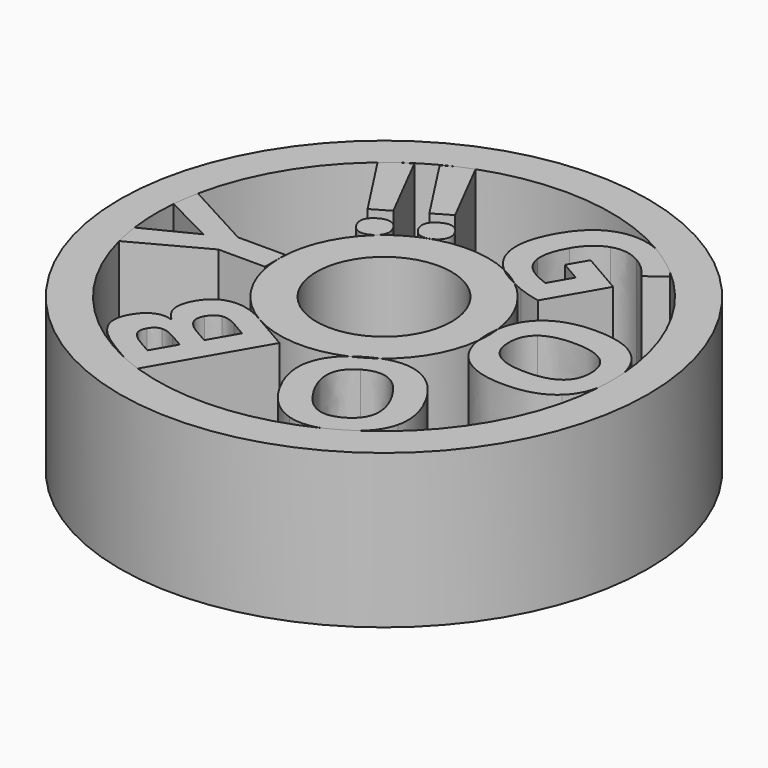
from build123d import *

# Parameters (mm, degrees)
F1_DEPTH = 25
F0_R     = 43
F2_DEPTH = 25
F0_R_2   = 11
F3_DEPTH = 25


with BuildPart() as f1:
    # F0 (on Top) → F1 (new body)
    with BuildSketch(Plane.XY):
        with BuildLine():
            Line((-17, -2.98828125), (-17, 0))
            Line((-17, 0), (-17, 1.1870659722))
            Line((-17, 1.1870659722), (-24.7170138889, 1.1870659722))
            Line((-24.7170138889, 1.1870659722), (-36.242713322, 7.4475318771))
            ThreePointArc((-36.242713322, 7.4475318771), (-36.5890510075, 5.4992132501), (-36.8307291667, 3.5351646428))
            Line((-36.8307291667, 3.5351646428), (-36.8307291667, 3.2356770833))
            Line((-36.8307291667, 3.2356770833), (-28.6666666667, -0.9006076389))
            Line((-28.6666666667, -0.9006076389), (-36.6700879054, -4.9299749505))
            ThreePointArc((-36.6700879054, -4.9299749505), (-36.3311051273, -7.0036276479), (-35.8749566626, -9.0546940563))
            Line((-35.8749566626, -9.0546940563), (-24.5824652778, -2.98828125))
            Line((-24.5824652778, -2.98828125), (-17, -2.98828125))
        make_face()
        with BuildLine():
            Line((-2.4333116245, -18.225036031), (-8.5000001878, -14.7224317559))
            Line((-8.5000001878, -14.7224317559), (-8.8570851274, -14.5162686699))
            add(Edge.make_bspline(
                [(-14.2286700686, -13.1690850385), (-11.7701480091, -12.834411031), (-8.8570851274, -14.5162686699)],
                knots=[0, 0, 0, 1, 1, 1], degree=2))
            add(Edge.make_bspline(
                [(-18.0435289337, -15.8530033054), (-16.6871921281, -13.503759046), (-14.2286700686, -13.1690850385)],
                knots=[0, 0, 0, 1, 1, 1], degree=2))
            add(Edge.make_bspline(
                [(-18.8531648268, -18.9263407523), (-19.0005601837, -17.5106300548), (-18.0435289337, -15.8530033054)],
                knots=[0, 0, 0, 1, 1, 1], degree=2))
            add(Edge.make_bspline(
                [(-17.2849577284, -21.6484944366), (-18.7057694699, -20.3420514498), (-18.8531648268, -18.9263407523)],
                knots=[0, 0, 0, 1, 1, 1], degree=2))
            Line((-17.2849577284, -21.6484944366), (-17.3522320339, -21.7650169519))
            add(Edge.make_bspline(
                [(-19.9576529598, -21.8419744818), (-18.666303665, -21.2719585596), (-17.3522320339, -21.7650169519)],
                knots=[0, 0, 0, 1, 1, 1], degree=2))
            add(Edge.make_bspline(
                [(-22.1387591991, -23.9530946383), (-21.2490022547, -22.4119904041), (-19.9576529598, -21.8419744818)],
                knots=[0, 0, 0, 1, 1, 1], degree=2))
            add(Edge.make_bspline(
                [(-22.3972871841, -28.2116421323), (-23.4473529491, -26.2196454997), (-22.1387591991, -23.9530946383)],
                knots=[0, 0, 0, 1, 1, 1], degree=2))
            add(Edge.make_bspline(
                [(-17.6936767468, -32.3130137649), (-21.3472214191, -30.2036387649), (-22.3972871841, -28.2116421323)],
                knots=[0, 0, 0, 1, 1, 1], degree=2))
            Line((-17.6936767468, -32.3130137649), (-15.3538221961, -33.6639294196))
            ThreePointArc((-15.3538221961, -33.6639294196), (-13.7416976025, -34.3535405308), (-12.0987118142, -34.966000235))
            Line((-12.0987118142, -34.966000235), (-2.4333116245, -18.225036031))
        make_face()
        with BuildLine():
            Line((-14.1754335568, -25.2730572508), (-12.0629931187, -26.4926753064))
            Line((-12.0629931187, -26.4926753064), (-14.2678542299, -30.3116067744))
            Line((-14.2678542299, -30.3116067744), (-16.1810787547, -29.20700608))
            add(Edge.make_bspline(
                [(-18.2190277369, -27.4590594826), (-17.7447357338, -28.3042283022), (-16.1810787547, -29.20700608)],
                knots=[0, 0, 0, 1, 1, 1], degree=2))
            add(Edge.make_bspline(
                [(-18.1225732123, -25.6253286787), (-18.6933197401, -26.613890663), (-18.2190277369, -27.4590594826)],
                knots=[0, 0, 0, 1, 1, 1], degree=2))
            add(Edge.make_bspline(
                [(-16.5845806612, -24.4935654941), (-17.5127641845, -24.5691084597), (-18.1225732123, -25.6253286787)],
                knots=[0, 0, 0, 1, 1, 1], degree=2))
            add(Edge.make_bspline(
                [(-14.1754335568, -25.2730572508), (-15.6563971379, -24.4180225286), (-16.5845806612, -24.4935654941)],
                knots=[0, 0, 0, 1, 1, 1], degree=2))
        make_face(mode=Mode.SUBTRACT)
        with BuildLine():
            Line((-7.8116910354, -19.1292040997), (-10.3963264521, -23.6059239604))
            Line((-10.3963264521, -23.6059239604), (-12.6516009411, -22.3038406271))
            add(Edge.make_bspline(
                [(-14.4689300551, -18.4029358755), (-15.7037390829, -20.5416878493), (-12.6516009411, -22.3038406271)],
                knots=[0, 0, 0, 1, 1, 1], degree=2))
            add(Edge.make_bspline(
                [(-12.735085266, -17.0534744416), (-13.7831661662, -17.215157978), (-14.4689300551, -18.4029358755)],
                knots=[0, 0, 0, 1, 1, 1], degree=2))
            add(Edge.make_bspline(
                [(-10.1834880397, -17.7598464608), (-11.6870043657, -16.8917909053), (-12.735085266, -17.0534744416)],
                knots=[0, 0, 0, 1, 1, 1], degree=2))
            Line((-10.1834880397, -17.7598464608), (-7.8116910354, -19.1292040997))
        make_face(mode=Mode.SUBTRACT)
        with BuildLine():
            add(Edge.make_bspline(
                [(10.2533819831, -13.5597993314), (13.1906554645, -12.4093893811), (15.8278450945, -13.2306041003)],
                knots=[0.2327103059, 0.2327103059, 0.2327103059, 1, 1, 1], degree=2))
            ThreePointArc((10.2533819831, -13.5597993314), (8.5456416458, -14.695986148), (6.7134928064, -15.6182269909))
            add(Edge.make_bspline(
                [(3.7057447161, -20.229302017), (4.3051508388, -17.5702917785), (6.7134928064, -15.6182269909)],
                knots=[0, 0, 0, 0.7571890375, 0.7571890375, 0.7571890375], degree=2))
            add(Edge.make_bspline(
                [(5.3772321743, -28.0072157188), (2.9141245354, -23.7409881437), (3.7057447161, -20.229302017)],
                knots=[0, 0, 0, 1, 1, 1], degree=2))
            add(Edge.make_bspline(
                [(11.2582746018, -33.3497300048), (7.8446800909, -32.2809608755), (5.3772321743, -28.0072157188)],
                knots=[0, 0, 0, 1, 1, 1], degree=2))
            add(Edge.make_bspline(
                [(16.3803947727, -33.1765379009), (13.6820963749, -34.1086092091), (11.2582746018, -33.3497300048)],
                knots=[0.2899502957, 0.2899502957, 0.2899502957, 1, 1, 1], degree=2))
            ThreePointArc((16.3803947727, -33.1765379009), (18.5971718509, -31.9866409482), (20.7279596903, -30.6488447919))
            add(Edge.make_bspline(
                [(23.4025020472, -26.3633156256), (22.8331043763, -28.799149152), (20.7279596903, -30.6488447919)],
                knots=[0, 0, 0, 0.6989737986, 0.6989737986, 0.6989737986], degree=2))
            add(Edge.make_bspline(
                [(21.740993053, -18.589664297), (24.2171215252, -22.878444617), (23.4025020472, -26.3633156256)],
                knots=[0, 0, 0, 1, 1, 1], degree=2))
            add(Edge.make_bspline(
                [(15.8278450945, -13.2306041003), (19.2648645808, -14.3008839771), (21.740993053, -18.589664297)],
                knots=[0, 0, 0, 1, 1, 1], degree=2))
        make_face()
        with BuildLine():
            add(Edge.make_bspline(
                [(17.9090407516, -20.7719726633), (16.2467143627, -17.8927388989), (14.3138568115, -17.0666328053)],
                knots=[0, 0, 0, 1, 1, 1], degree=2))
            add(Edge.make_bspline(
                [(19.3101759252, -25.7465530277), (19.5691970016, -23.6474476368), (17.9090407516, -20.7719726633)],
                knots=[0, 0, 0, 1, 1, 1], degree=2))
            add(Edge.make_bspline(
                [(16.8785737576, -29.0999986964), (19.0511548487, -27.8456584186), (19.3101759252, -25.7465530277)],
                knots=[0, 0, 0, 1, 1, 1], degree=2))
            add(Edge.make_bspline(
                [(9.1961636423, -25.8023546077), (12.5446879479, -31.6021688353), (16.8785737576, -29.0999986964)],
                knots=[0, 0, 0, 1, 1, 1], degree=2))
            add(Edge.make_bspline(
                [(10.2084181692, -17.4948669895), (5.8519796146, -20.0100579617), (9.1961636423, -25.8023546077)],
                knots=[0, 0, 0, 1, 1, 1], degree=2))
            add(Edge.make_bspline(
                [(14.3138568115, -17.0666328053), (12.3809992603, -16.2405267117), (10.2084181692, -17.4948669895)],
                knots=[0, 0, 0, 1, 1, 1], degree=2))
        make_face(mode=Mode.SUBTRACT)
        with BuildLine():
            ThreePointArc((16.8698216828, 2.0997896063), (16.9674242095, 1.0519104982), (17, 0))
            ThreePointArc((17, 0), (16.9706065238, -0.9992568315), (16.8825277394, -1.995058177))
            add(Edge.make_bspline(
                [(19.3719618056, -6.9053819444), (17.3688944515, -5.0567758958), (16.8825277394, -1.995058177)],
                knots=[0, 0, 0, 0.7571890375, 0.7571890375, 0.7571890375], degree=2))
            add(Edge.make_bspline(
                [(26.9435763889, -9.3467881944), (22.0173611111, -9.3467881944), (19.3719618056, -6.9053819444)],
                knots=[0, 0, 0, 1, 1, 1], degree=2))
            add(Edge.make_bspline(
                [(34.5108506944, -6.9249131944), (31.8784722222, -9.3467881944), (26.9435763889, -9.3467881944)],
                knots=[0, 0, 0, 1, 1, 1], degree=2))
            add(Edge.make_bspline(
                [(36.9219220182, -2.4024309532), (36.3799702503, -5.2052615668), (34.5108506944, -6.9249131944)],
                knots=[0.2899502957, 0.2899502957, 0.2899502957, 1, 1, 1], degree=2))
            ThreePointArc((36.9219220182, -2.4024309532), (36.980475353, -1.2018496845), (37, 0))
            ThreePointArc((37, 0), (36.9766571445, 1.3140876744), (36.9066580316, 2.6265172645))
            add(Edge.make_bspline(
                [(34.5325520833, 7.0855034722), (36.3573469611, 5.3744738611), (36.9066580316, 2.6265172645)],
                knots=[0, 0, 0, 0.6989737986, 0.6989737986, 0.6989737986], degree=2))
            add(Edge.make_bspline(
                [(26.9696180556, 9.5334201389), (31.921875, 9.5334201389), (34.5325520833, 7.0855034722)],
                knots=[0, 0, 0, 1, 1, 1], degree=2))
            add(Edge.make_bspline(
                [(19.3719618056, 7.0920138889), (22.0173611111, 9.5334201389), (26.9696180556, 9.5334201389)],
                knots=[0, 0, 0, 1, 1, 1], degree=2))
            add(Edge.make_bspline(
                [(16.8698216828, 2.0997896063), (17.3421741817, 5.2187480342), (19.3719618056, 7.0920138889)],
                knots=[0.2327103059, 0.2327103059, 0.2327103059, 1, 1, 1], degree=2))
        make_face()
        with BuildLine():
            add(Edge.make_bspline(
                [(26.9435763889, 5.1236979167), (23.6189236111, 5.1236979167), (21.9370659722, 3.8628472222)],
                knots=[0, 0, 0, 1, 1, 1], degree=2))
            add(Edge.make_bspline(
                [(31.9522569444, 3.8498263889), (30.2638888889, 5.1236979167), (26.9435763889, 5.1236979167)],
                knots=[0, 0, 0, 1, 1, 1], degree=2))
            add(Edge.make_bspline(
                [(33.640625, 0.0672743056), (33.640625, 2.5759548611), (31.9522569444, 3.8498263889)],
                knots=[0, 0, 0, 1, 1, 1], degree=2))
            add(Edge.make_bspline(
                [(26.9435763889, -4.9370659722), (33.640625, -4.9370659722), (33.640625, 0.0672743056)],
                knots=[0, 0, 0, 1, 1, 1], degree=2))
            add(Edge.make_bspline(
                [(20.2552083333, 0.0933159722), (20.2552083333, -4.9370659722), (26.9435763889, -4.9370659722)],
                knots=[0, 0, 0, 1, 1, 1], degree=2))
            add(Edge.make_bspline(
                [(21.9370659722, 3.8628472222), (20.2552083333, 2.6019965278), (20.2552083333, 0.0933159722)],
                knots=[0, 0, 0, 1, 1, 1], degree=2))
        make_face(mode=Mode.SUBTRACT)
        with BuildLine():
            ThreePointArc((7.258019972, 15.3727403571), (9.0554118429, 14.3874777621), (10.7211599616, 13.1930560932))
            add(Edge.make_bspline(
                [(12.3362717047, 12.4825007575), (11.5205403299, 12.8041492388), (10.7211599616, 13.1930560932)],
                knots=[0, 0, 0, 0.5136725556, 0.5136725556, 0.5136725556], degree=2))
            add(Edge.make_bspline(
                [(15.8944361368, 11.4405612243), (13.9243093874, 11.856326597), (12.3362717047, 12.4825007575)],
                knots=[0, 0, 0, 1, 1, 1], degree=2))
            Line((15.8944361368, 11.4405612243), (21.0354951646, 20.3451366652))
            Line((21.0354951646, 20.3451366652), (14.2208074169, 24.2795984707))
            Line((14.2208074169, 24.2795984707), (12.4695053336, 21.246254283))
            Line((12.4695053336, 21.246254283), (15.7246181794, 19.3669140052))
            Line((15.7246181794, 19.3669140052), (13.6564758183, 15.7847863585))
            add(Edge.make_bspline(
                [(11.2065120651, 16.8885468835), (12.3491844729, 16.2288246613), (13.6564758183, 15.7847863585)],
                knots=[0, 0, 0, 1, 1, 1], degree=2))
            add(Edge.make_bspline(
                [(8.7287972428, 20.2836508691), (9.0226546016, 18.1493975779), (11.2065120651, 16.8885468835)],
                knots=[0, 0, 0, 1, 1, 1], degree=2))
            add(Edge.make_bspline(
                [(10.0495232174, 25.2144445267), (8.4349398841, 22.4179041603), (8.7287972428, 20.2836508691)],
                knots=[0, 0, 0, 1, 1, 1], degree=2))
            add(Edge.make_bspline(
                [(13.9312836455, 28.6566008109), (11.5946621063, 27.890703587), (10.0495232174, 25.2144445267)],
                knots=[0, 0, 0, 1, 1, 1], degree=2))
            add(Edge.make_bspline(
                [(18.6284258166, 28.0596508126), (16.2679051847, 29.4224980349), (13.9312836455, 28.6566008109)],
                knots=[0, 0, 0, 1, 1, 1], degree=2))
            add(Edge.make_bspline(
                [(21.9987923328, 24.8608385255), (20.6619316475, 26.8856056737), (18.6284258166, 28.0596508126)],
                knots=[0, 0, 0, 1, 1, 1], degree=2))
            Line((21.9987923328, 24.8608385255), (24.8909806141, 27.075116685))
            add(Edge.make_bspline(
                [(24.0099871769, 28.1517409011), (24.4712335177, 27.6379072493), (24.8909806141, 27.075116685)],
                knots=[0.7724555025, 0.7724555025, 0.7724555025, 1, 1, 1], degree=2))
            ThreePointArc((24.0099871769, 28.1517409011), (21.4326641019, 30.1602538035), (18.6881894438, 31.9335493691))
            add(Edge.make_bspline(
                [(12.4649605135, 32.5578268682), (15.4213169325, 33.3133819423), (18.6881894438, 31.9335493691)],
                knots=[0, 0, 0, 0.7943894352, 0.7943894352, 0.7943894352], degree=2))
            add(Edge.make_bspline(
                [(6.3432414137, 27.4494900244), (8.7434150248, 31.6067126658), (12.4649605135, 32.5578268682)],
                knots=[0, 0, 0, 1, 1, 1], degree=2))
            add(Edge.make_bspline(
                [(4.6045993033, 19.7028304974), (3.8736233582, 23.1719860769), (6.3432414137, 27.4494900244)],
                knots=[0, 0, 0, 1, 1, 1], degree=2))
            add(Edge.make_bspline(
                [(7.258019972, 15.3727403571), (5.126622401, 17.2253490511), (4.6045993033, 19.7028304974)],
                knots=[0.2858546152, 0.2858546152, 0.2858546152, 1, 1, 1], degree=2))
        make_face()
        with BuildLine():
            add(Edge.make_bspline(
                [(-8.1751486476, 17.1502242059), (-8.7437250364, 18.1350273994), (-8.5074986075, 18.9454892779)],
                knots=[0, 0, 0, 1, 1, 1], degree=2))
            add(Edge.make_bspline(
                [(-6.7850677212, 15.9881931369), (-7.6261035087, 16.1992501297), (-8.1751486476, 17.1502242059)],
                knots=[0, 0, 0, 1, 1, 1], degree=2))
            add(Edge.make_bspline(
                [(-4.9554699493, 16.347882672), (-5.9440319336, 15.7771361442), (-6.7850677212, 15.9881931369)],
                knots=[0, 0, 0, 1, 1, 1], degree=2))
            add(Edge.make_bspline(
                [(-3.7619927409, 17.7486014538), (-3.9932195006, 16.9034382275), (-4.9554699493, 16.347882672)],
                knots=[0, 0, 0, 1, 1, 1], degree=2))
            add(Edge.make_bspline(
                [(-4.0667902867, 19.5221860114), (-3.5307659812, 18.5937646801), (-3.7619927409, 17.7486014538)],
                knots=[0, 0, 0, 1, 1, 1], degree=2))
            add(Edge.make_bspline(
                [(-5.4544882352, 20.6931104749), (-4.6223458423, 20.4844364601), (-4.0667902867, 19.5221860114)],
                knots=[0, 0, 0, 1, 1, 1], degree=2))
            add(Edge.make_bspline(
                [(-7.2601574493, 20.3397185176), (-6.2866306282, 20.9017844898), (-5.4544882352, 20.6931104749)],
                knots=[0, 0, 0, 1, 1, 1], degree=2))
            add(Edge.make_bspline(
                [(-8.5074986075, 18.9454892779), (-8.2712721785, 19.7559511564), (-7.2601574493, 20.3397185176)],
                knots=[0, 0, 0, 1, 1, 1], degree=2))
        make_face()
        with BuildLine():
            add(Edge.make_bspline(
                [(-15.0574946299, 13.1766999003), (-15.6260710188, 14.1615030939), (-15.3898445898, 14.9719649724)],
                knots=[0, 0, 0, 1, 1, 1], degree=2))
            add(Edge.make_bspline(
                [(-13.6674137035, 12.0146688314), (-14.508449491, 12.2257258241), (-15.0574946299, 13.1766999003)],
                knots=[0, 0, 0, 1, 1, 1], degree=2))
            add(Edge.make_bspline(
                [(-11.8378159316, 12.3743583664), (-12.826377916, 11.8036118387), (-13.6674137035, 12.0146688314)],
                knots=[0, 0, 0, 1, 1, 1], degree=2))
            add(Edge.make_bspline(
                [(-10.6443387232, 13.7750771483), (-10.875565483, 12.929913922), (-11.8378159316, 12.3743583664)],
                knots=[0, 0, 0, 1, 1, 1], degree=2))
            add(Edge.make_bspline(
                [(-10.9491362691, 15.5486617059), (-10.4131119635, 14.6202403746), (-10.6443387232, 13.7750771483)],
                knots=[0, 0, 0, 1, 1, 1], degree=2))
            add(Edge.make_bspline(
                [(-12.3368342176, 16.7195861694), (-11.5046918246, 16.5109121545), (-10.9491362691, 15.5486617059)],
                knots=[0, 0, 0, 1, 1, 1], degree=2))
            add(Edge.make_bspline(
                [(-14.1425034316, 16.366194212), (-13.1689766105, 16.9282601842), (-12.3368342176, 16.7195861694)],
                knots=[0, 0, 0, 1, 1, 1], degree=2))
            add(Edge.make_bspline(
                [(-15.3898445898, 14.9719649724), (-15.1536181609, 15.7824268509), (-14.1425034316, 16.366194212)],
                knots=[0, 0, 0, 1, 1, 1], degree=2))
        make_face()
        with BuildLine():
            ThreePointArc((-21.4769069706, 30.1287647768), (-22.6293841602, 29.2730417369), (-23.7478021333, 28.3732601905))
            Line((-23.7478021333, 28.3732601905), (-16.7308610819, 17.5681111705))
            Line((-16.7308610819, 17.5681111705), (-13.8666624809, 19.2217570038))
            Line((-13.8666624809, 19.2217570038), (-19.8944487691, 31.0423974455))
            Line((-19.8944487691, 31.0423974455), (-21.4769069706, 30.1287647768))
        make_face()
        with BuildLine():
            Line((-6.9843164985, 23.1952813094), (-12.8495298012, 34.6971120396))
            ThreePointArc((-12.8495298012, 34.6971120396), (-14.1111350554, 34.2034481807), (-15.3538221961, 33.6639294196))
            Line((-15.3538221961, 33.6639294196), (-17.0753556578, 32.6700016121))
            Line((-17.0753556578, 32.6700016121), (-9.8485150996, 21.541635476))
            Line((-9.8485150996, 21.541635476), (-6.9843164985, 23.1952813094))
        make_face()
    extrude(amount=F1_DEPTH)


with BuildPart() as f2:
    # F0 (on Top) → F2 (new body)
    with BuildSketch(Plane.XY):
        Circle(F0_R)
        with BuildLine():
            ThreePointArc((24.0099871769, 28.1517409011), (33.0241377827, 16.6855123898), (36.9066580316, 2.6265172645))
            add(Edge.make_bspline(
                [(36.9066580316, 2.6265172645), (37.1432291667, 1.4430581167), (37.1432291667, 0.0672743056)],
                knots=[0.6989737986, 0.6989737986, 0.6989737986, 1, 1, 1], degree=2))
            add(Edge.make_bspline(
                [(37.1432291667, 0.0672743056), (37.1432291667, -1.2578891553), (36.9219220182, -2.4024309532)],
                knots=[0, 0, 0, 0.2899502957, 0.2899502957, 0.2899502957], degree=2))
            ThreePointArc((36.9219220182, -2.4024309532), (32.0989437355, -18.4026577174), (20.7279596903, -30.6488447919))
            add(Edge.make_bspline(
                [(20.7279596903, -30.6488447919), (19.8213395716, -31.4454509786), (18.629875841, -32.1333428841)],
                knots=[0.6989737986, 0.6989737986, 0.6989737986, 1, 1, 1], degree=2))
            add(Edge.make_bspline(
                [(18.629875841, -32.1333428841), (17.4822506197, -32.7959246145), (16.3803947727, -33.1765379009)],
                knots=[0, 0, 0, 0.2899502957, 0.2899502957, 0.2899502957], degree=2))
            ThreePointArc((16.3803947727, -33.1765379009), (2.3202900898, -36.9271750057), (-12.0987118142, -34.966000235))
            Line((-12.0987118142, -34.966000235), (-12.3486762079, -35.3989512649))
            Line((-12.3486762079, -35.3989512649), (-15.3538221961, -33.6639294196))
            ThreePointArc((-15.3538221961, -33.6639294196), (-28.4165543677, -23.6959793608), (-35.8749566626, -9.0546940563))
            Line((-35.8749566626, -9.0546940563), (-36.8307291667, -9.5681423611))
            Line((-36.8307291667, -9.5681423611), (-36.8307291667, -5.0108506944))
            Line((-36.8307291667, -5.0108506944), (-36.6700879054, -4.9299749505))
            ThreePointArc((-36.6700879054, -4.9299749505), (-36.9933395985, -0.702015208), (-36.8307291667, 3.5351646428))
            Line((-36.8307291667, 3.5351646428), (-36.8307291667, 7.7669270833))
            Line((-36.8307291667, 7.7669270833), (-36.242713322, 7.4475318771))
            ThreePointArc((-36.242713322, 7.4475318771), (-31.7677039225, 18.9687371085), (-23.7478021333, 28.3732601905))
            Line((-23.7478021333, 28.3732601905), (-23.9577016401, 28.6964773066))
            Line((-23.9577016401, 28.6964773066), (-21.4769069706, 30.1287647768))
            ThreePointArc((-21.4769069706, 30.1287647768), (-18.5, 32.04293994), (-15.3538221961, 33.6639294196))
            Line((-15.3538221961, 33.6639294196), (-13.0121027867, 35.015921751))
            Line((-13.0121027867, 35.015921751), (-12.8495298012, 34.6971120396))
            ThreePointArc((-12.8495298012, 34.6971120396), (3.2298306866, 36.8587600678), (18.6881894438, 31.9335493691))
            add(Edge.make_bspline(
                [(18.6881894438, 31.9335493691), (19.5337489041, 31.5764094802), (20.4001105059, 31.0762153762)],
                knots=[0.7943894352, 0.7943894352, 0.7943894352, 1, 1, 1], degree=2))
            add(Edge.make_bspline(
                [(20.4001105059, 31.0762153762), (22.444173554, 29.8960750251), (24.0099871769, 28.1517409011)],
                knots=[0, 0, 0, 0.7724555025, 0.7724555025, 0.7724555025], degree=2))
        make_face(mode=Mode.SUBTRACT)
        with BuildLine():
            Line((-23.9577016401, 28.6964773066), (-23.7478021333, 28.3732601905))
            ThreePointArc((-23.7478021333, 28.3732601905), (-22.6293841602, 29.2730417369), (-21.4769069706, 30.1287647768))
            Line((-21.4769069706, 30.1287647768), (-23.9577016401, 28.6964773066))
        make_face()
        with BuildLine():
            ThreePointArc((-15.3538221961, 33.6639294196), (-14.1111350554, 34.2034481807), (-12.8495298012, 34.6971120396))
            Line((-12.8495298012, 34.6971120396), (-13.0121027867, 35.015921751))
            Line((-13.0121027867, 35.015921751), (-15.3538221961, 33.6639294196))
        make_face()
        with BuildLine():
            ThreePointArc((18.6881894438, 31.9335493691), (21.4326641019, 30.1602538035), (24.0099871769, 28.1517409011))
            add(Edge.make_bspline(
                [(20.4001105059, 31.0762153762), (22.444173554, 29.8960750251), (24.0099871769, 28.1517409011)],
                knots=[0, 0, 0, 0.7724555025, 0.7724555025, 0.7724555025], degree=2))
            add(Edge.make_bspline(
                [(18.6881894438, 31.9335493691), (19.5337489041, 31.5764094802), (20.4001105059, 31.0762153762)],
                knots=[0.7943894352, 0.7943894352, 0.7943894352, 1, 1, 1], degree=2))
        make_face()
        with BuildLine():
            add(Edge.make_bspline(
                [(36.9066580316, 2.6265172645), (37.1432291667, 1.4430581167), (37.1432291667, 0.0672743056)],
                knots=[0.6989737986, 0.6989737986, 0.6989737986, 1, 1, 1], degree=2))
            ThreePointArc((36.9066580316, 2.6265172645), (36.9766571445, 1.3140876744), (37, 0))
            ThreePointArc((37, 0), (36.980475353, -1.2018496845), (36.9219220182, -2.4024309532))
            add(Edge.make_bspline(
                [(37.1432291667, 0.0672743056), (37.1432291667, -1.2578891553), (36.9219220182, -2.4024309532)],
                knots=[0, 0, 0, 0.2899502957, 0.2899502957, 0.2899502957], degree=2))
        make_face()
        with BuildLine():
            Line((-12.3486762079, -35.3989512649), (-12.0987118142, -34.966000235))
            ThreePointArc((-12.0987118142, -34.966000235), (-13.7416976025, -34.3535405308), (-15.3538221961, -33.6639294196))
            Line((-15.3538221961, -33.6639294196), (-12.3486762079, -35.3989512649))
        make_face()
        with BuildLine():
            add(Edge.make_bspline(
                [(20.7279596903, -30.6488447919), (19.8213395716, -31.4454509786), (18.629875841, -32.1333428841)],
                knots=[0.6989737986, 0.6989737986, 0.6989737986, 1, 1, 1], degree=2))
            ThreePointArc((20.7279596903, -30.6488447919), (18.5971718509, -31.9866409482), (16.3803947727, -33.1765379009))
            add(Edge.make_bspline(
                [(18.629875841, -32.1333428841), (17.4822506197, -32.7959246145), (16.3803947727, -33.1765379009)],
                knots=[0, 0, 0, 0.2899502957, 0.2899502957, 0.2899502957], degree=2))
        make_face()
        with BuildLine():
            Line((-36.8307291667, -9.5681423611), (-35.8749566626, -9.0546940563))
            ThreePointArc((-35.8749566626, -9.0546940563), (-36.3311051273, -7.0036276479), (-36.6700879054, -4.9299749505))
            Line((-36.6700879054, -4.9299749505), (-36.8307291667, -5.0108506944))
            Line((-36.8307291667, -5.0108506944), (-36.8307291667, -9.5681423611))
        make_face()
        with BuildLine():
            ThreePointArc((-36.8307291667, 3.5351646428), (-36.5890510075, 5.4992132501), (-36.242713322, 7.4475318771))
            Line((-36.242713322, 7.4475318771), (-36.8307291667, 7.7669270833))
            Line((-36.8307291667, 7.7669270833), (-36.8307291667, 3.5351646428))
        make_face()
    extrude(amount=F2_DEPTH)


with BuildPart() as f3:
    # F0 (on Top) → F3 (new body)
    with BuildSketch(Plane.XY):
        with BuildLine():
            add(Edge.make_bspline(
                [(16.7265625, 0.0933159722), (16.7265625, 1.1538447102), (16.8698216828, 2.0997896063)],
                knots=[0, 0, 0, 0.2327103059, 0.2327103059, 0.2327103059], degree=2))
            ThreePointArc((16.8698216828, 2.0997896063), (14.8687829819, 8.2413161957), (10.7211599616, 13.1930560932))
            add(Edge.make_bspline(
                [(10.7211599616, 13.1930560932), (9.9643342224, 13.5612596784), (9.2221649512, 13.9897513069)],
                knots=[0.5136725556, 0.5136725556, 0.5136725556, 1, 1, 1], degree=2))
            add(Edge.make_bspline(
                [(9.2221649512, 13.9897513069), (8.1111653474, 14.6311872272), (7.258019972, 15.3727403571)],
                knots=[0, 0, 0, 0.2858546152, 0.2858546152, 0.2858546152], degree=2))
            ThreePointArc((7.258019972, 15.3727403571), (-9.0998258356, 14.3594279051), (-17, 0))
            ThreePointArc((-17, 0), (-14.7224319186, -8.4999999061), (-8.5000001878, -14.7224317559))
            ThreePointArc((-8.5000001878, -14.7224317559), (-0.9992569398, -16.9706065174), (6.7134928064, -15.6182269909))
            add(Edge.make_bspline(
                [(6.7134928064, -15.6182269909), (7.4857858562, -14.9922502448), (8.4440952525, -14.4389700569)],
                knots=[0.7571890375, 0.7571890375, 0.7571890375, 1, 1, 1], degree=2))
            add(Edge.make_bspline(
                [(8.4440952525, -14.4389700569), (9.3625400811, -13.9087056879), (10.2533819831, -13.5597993314)],
                knots=[0, 0, 0, 0.2327103059, 0.2327103059, 0.2327103059], degree=2))
            ThreePointArc((10.2533819831, -13.5597993314), (14.7487358309, -8.454276515), (16.8825277394, -1.995058177))
            add(Edge.make_bspline(
                [(16.8825277394, -1.995058177), (16.7265625, -1.0132444036), (16.7265625, 0.0933159722)],
                knots=[0.7571890375, 0.7571890375, 0.7571890375, 1, 1, 1], degree=2))
        make_face()
        Circle(F0_R_2, mode=Mode.SUBTRACT)
    extrude(amount=F3_DEPTH)


solid = Compound([f1.part, f2.part, f3.part])
